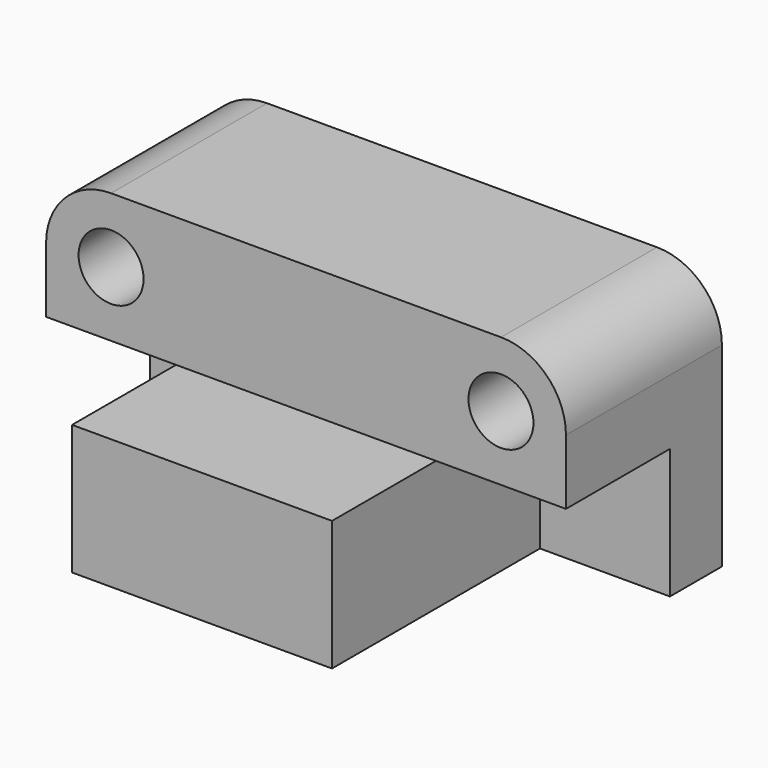
from build123d import *

# Parameters (mm, degrees)
F0_W      = 203.2
F0_H      = 101.6
F1_DEPTH  = 76.2
F3_DEPTH  = 25.4
F2_W      = 50.8
F2_H      = 50.8
F4_DEPTH  = 76.2
F5_W      = 25.4
F5_H      = 50.8
F6_DEPTH  = 203.2
F7_DEPTH  = 25.4
F9_DEPTH  = 76.2
F11_DEPTH = 76.2


with BuildPart() as f1:
    # F0 (on Front) → F1 (new body)
    with BuildSketch(Plane.XZ):
        with Locations((27.0239350557, -1.4781945765)):
            Rectangle(F0_W, F0_H)
    extrude(amount=F1_DEPTH)

    # F3 (add): a face of the model
    f3_faces = [f1.faces().sort_by_distance(p)[0] for p in [
        (27.0239350557, 0, -1.4781945765),
    ]]
    extrude(f3_faces, amount=F3_DEPTH)

    # F2 (on face) → F4 (cut)
    with BuildSketch(Plane.XZ.offset(76.2)):
        with Locations((103.2239350557, -26.8781945765)):
            Rectangle(F2_W, F2_H)
        with Locations((-49.1760649443, -26.8781945765)):
            Rectangle(F2_W, F2_H)
    extrude(amount=-F4_DEPTH, mode=Mode.SUBTRACT)

    # F5 (on face) → F6 (cut)
    with BuildSketch(Plane.YZ.offset(128.6239350557)):
        with Locations((-63.5, 23.9218054235)):
            Rectangle(F5_W, F5_H)
    extrude(amount=-F6_DEPTH, mode=Mode.SUBTRACT)

    # F7 (add): a face of the model
    f7_faces = [f1.faces().sort_by_distance(p)[0] for p in [
        (27.0239350557, -76.2, -26.8781945765),
    ]]
    extrude(f7_faces, amount=F7_DEPTH)

    # F8 (on face) → F9 (cut)
    with BuildSketch(Plane.XZ.offset(50.8)):
        with BuildLine():
            Line((128.6239350557, 49.3218054235), (103.2239350557, 49.3218054235))
            ThreePointArc((103.2239350557, 49.3218054235), (121.1844472979, 41.8823176656), (128.6239350557, 23.9218054235))
            Line((128.6239350557, 23.9218054235), (128.6239350557, 49.3218054235))
        make_face()
        with BuildLine():
            Line((-49.1760649443, 49.3218054235), (-74.5760649443, 49.3218054235))
            Line((-74.5760649443, 49.3218054235), (-74.5760649443, 23.9218054235))
            ThreePointArc((-74.5760649443, 23.9218054235), (-67.1365771864, 41.8823176656), (-49.1760649443, 49.3218054235))
        make_face()
    extrude(amount=-F9_DEPTH, mode=Mode.SUBTRACT)

    # F10 (on face) → F11 (cut)
    with BuildSketch(Plane.XZ.offset(50.8)):
        with BuildLine():
            ThreePointArc((-36.4760649443, 23.9218054235), (-40.1958088232, 32.9020615446), (-49.1760649443, 36.6218054235))
            ThreePointArc((-49.1760649443, 36.6218054235), (-58.1563210653, 14.9415493024), (-36.4760649443, 23.9218054235))
        make_face()
        with BuildLine():
            ThreePointArc((115.9239350557, 23.9218054235), (112.2041911768, 32.9020615446), (103.2239350557, 36.6218054235))
            ThreePointArc((103.2239350557, 36.6218054235), (94.2436789347, 14.9415493024), (115.9239350557, 23.9218054235))
        make_face()
    extrude(amount=-F11_DEPTH, mode=Mode.SUBTRACT)


solid = f1.part
